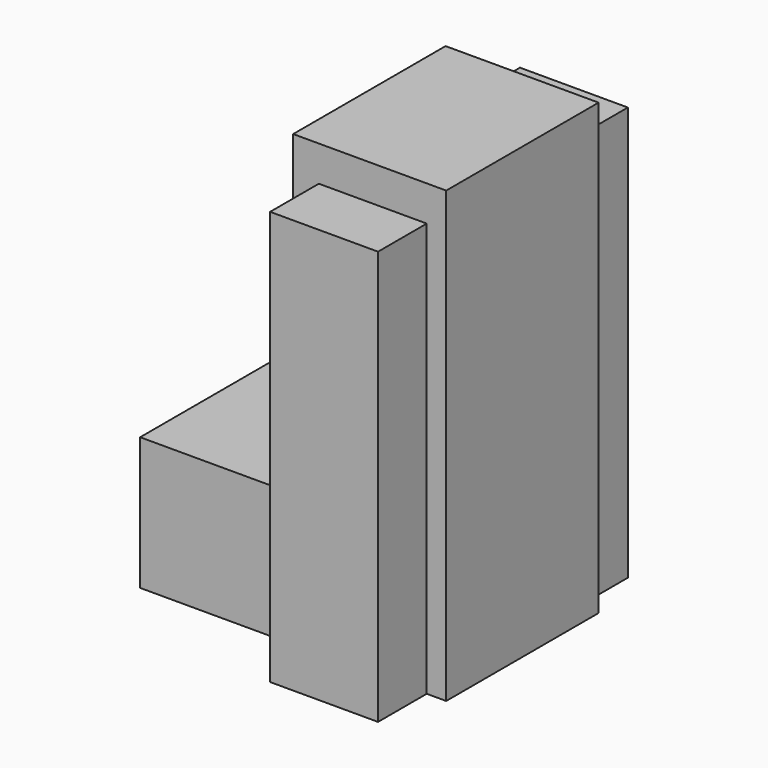
from build123d import *

# Parameters (mm, degrees)
F0_W     = 3.1658634543
F0_H     = 21.5854328126
F1_DEPTH = 15.494
F0_W_2   = 17.5561509095
F0_H_2   = 45.7611167803
F2_DEPTH = 25.4
F3_DEPTH = 25.4


with BuildPart() as f1:
    # F0 (on Front) → F1 (new body)
    with BuildSketch(Plane.XZ):
        Polygon((0, 10.7927164063), (-24.8951986432, 10.7927164063), (-24.8951986432, -10.7927164063), (4.1731842794, -10.7927164063), (4.1731842794, 10.7927164063), align=None)
        with Locations((23.312266916, 0)):
            Rectangle(F0_W, F0_H)
        Polygon((0, 62.3099505901), (0, 10.7927164063), (4.1731842794, 10.7927164063), (4.1731842794, 56.5538331866), (21.7293351889, 56.5538331866), (21.7293351889, 10.7927164063), (24.8951986432, 10.7927164063), (24.8951986432, 62.3099505901), align=None)
    extrude(amount=F1_DEPTH)

    # F0 (on Front) → F2 (join)
    with BuildSketch(Plane.XZ):
        with Locations((12.9512597341, 33.6732747965)):
            Rectangle(F0_W_2, F0_H_2)
    extrude(amount=F2_DEPTH)

    # F0 (on Front) → F3 (join)
    with BuildSketch(Plane.XZ):
        with Locations((12.9512597341, 0)):
            Rectangle(F0_W_2, F0_H)
    extrude(amount=F3_DEPTH)

    # F4: F1 across plane


with BuildPart() as f1_1:
    add(f1.part)
    add(f1.part.mirror(Plane.XZ))


solid = f1_1.part
